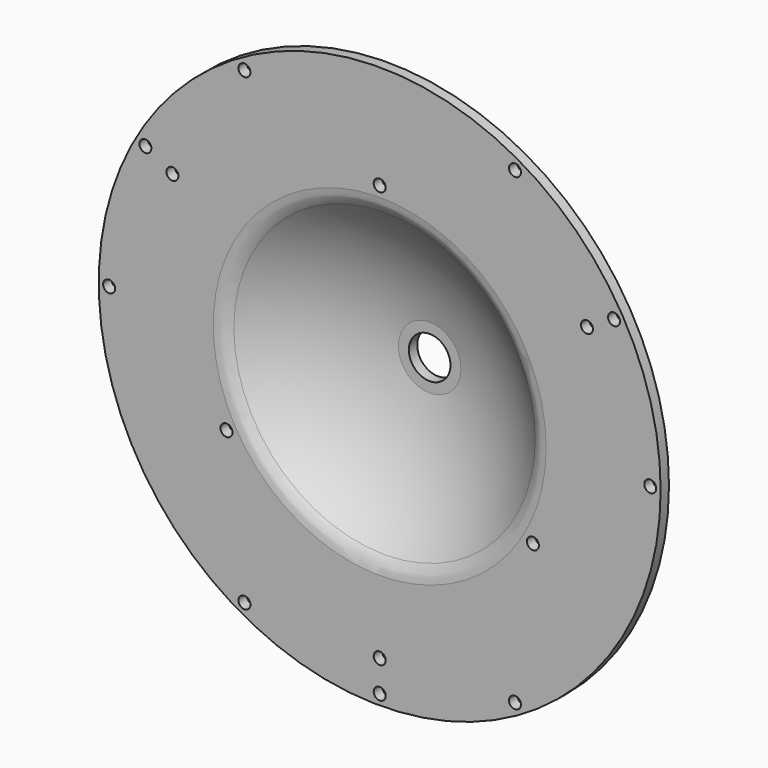
from build123d import *

# Parameters (mm, degrees)
F2_R     = 1.8288
F3_DEPTH = 3.175
F4_R     = 1.8288
F4_R_2   = 6.35
F5_DEPTH = 22.2550495781


with BuildPart() as f1:
    # F0 (on Top) → F1 (revolve)
    with BuildSketch(Plane.XY):
        with BuildLine():
            ThreePointArc((-36.4561261994, 17.1794718059), (-16.929171458, 11.3460812753), (0, 0))
            ThreePointArc((0, 0), (2.2342838703, -1.3864951183), (4.8188738006, -1.8705281941))
            Line((4.8188738006, -1.8705281941), (39.7438738006, -1.8705281941))
            Line((39.7438738006, -1.8705281941), (39.7438738006, 1.3044718059))
            Line((39.7438738006, 1.3044718059), (4.8188738006, 1.3044718059))
            ThreePointArc((4.8188738006, 1.3044718059), (3.3831947568, 1.5733408189), (2.1421025074, 2.3435063149))
            ThreePointArc((2.1421025074, 2.3435063149), (-15.7784918037, 14.3133175148), (-36.4561261994, 20.3845213841))
            Line((-36.4561261994, 20.3845213841), (-45.9811261994, 20.3845213841))
            Line((-45.9811261994, 20.3845213841), (-45.9811261994, 17.1794718059))
            Line((-45.9811261994, 17.1794718059), (-36.4561261994, 17.1794718059))
        make_face()
    revolve(axis=Axis((-45.9811261994, 7.6544718059, 0), (0, 1, 0)))

    # F2 (on face) → F3 (cut, through all)
    with BuildSketch(Plane.XZ.offset(1.8705281941)):
        with Locations((-87.2561261994, 71.4903970824)):
            Circle(F2_R)
        with Locations((-4.7061261994, 71.4903970824)):
            Circle(F2_R)
        with Locations((36.5688738006, 0)):
            Circle(F2_R)
        with Locations((-4.7061261994, -71.4903970824)):
            Circle(F2_R)
        with Locations((-87.2561261994, -71.4903970824)):
            Circle(F2_R)
        with Locations((-128.5311261994, 0)):
            Circle(F2_R)
        with Locations((-117.4715232818, 41.275)):
            Circle(F2_R)
        with Locations((25.509270883, 41.275)):
            Circle(F2_R)
        with Locations((-45.9811261994, -82.55)):
            Circle(F2_R)
    extrude(amount=-F3_DEPTH, mode=Mode.SUBTRACT)

    # F4 (on face) → F5 (cut, through all)
    with BuildSketch(Plane.XZ.offset(1.8705281941)):
        with Locations((-109.2226313107, 36.5125)):
            Circle(F4_R)
        with Locations((17.260378912, 36.5125)):
            Circle(F4_R)
        with Locations((-45.9811261994, -73.025)):
            Circle(F4_R)
        with Locations((-45.9811261994, 0)):
            Circle(F4_R_2)
        with Locations((-45.9811261994, 53.975)):
            Circle(F4_R)
        with Locations((-92.7248473687, -26.9875)):
            Circle(F4_R)
        with Locations((0.7625949699, -26.9875)):
            Circle(F4_R)
    extrude(amount=-F5_DEPTH, mode=Mode.SUBTRACT)


solid = f1.part
